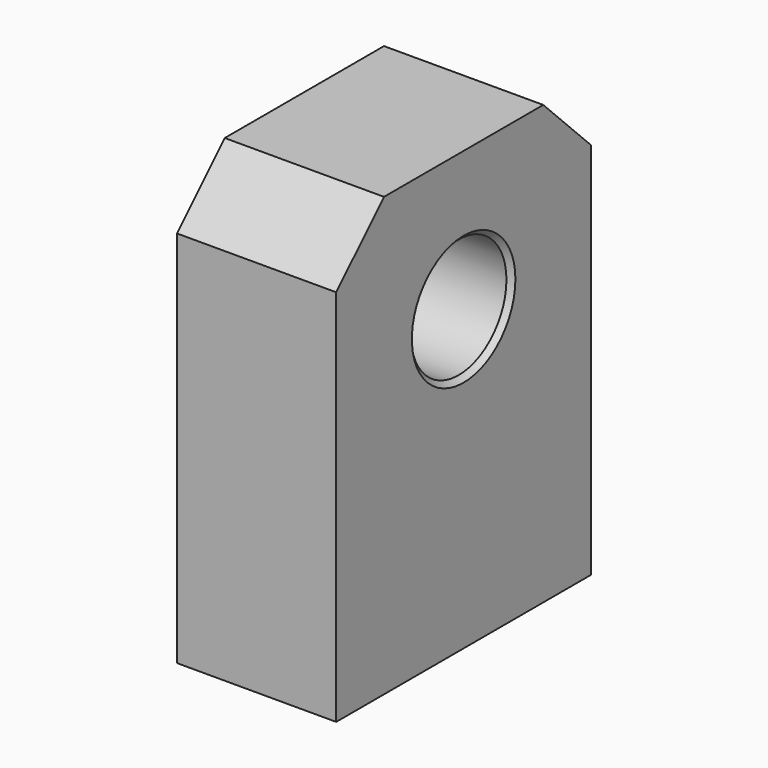
from build123d import *

# Parameters (mm, degrees)
F0_W     = 50.8
F0_H     = 69.85
F1_DEPTH = 25.4
F2_R     = 9.525
F3_DEPTH = 25.401
F4_SIZE  = 9.525
F5_SIZE  = 0.79375


with BuildPart() as f1:
    # F0 (on Right) → F1 (new body)
    with BuildSketch(Plane.YZ):
        with Locations((25.4, 34.925)):
            Rectangle(F0_W, F0_H)
    extrude(amount=F1_DEPTH)

    # F2 (on face) → F3 (cut, through all)
    with BuildSketch(Plane.YZ.offset(25.4)):
        with Locations((25.4, 47.625)):
            Circle(F2_R)
    extrude(amount=-F3_DEPTH, mode=Mode.SUBTRACT)

    # F4
    f4_edges = [f1.edges().sort_by_distance(p)[0] for p in [
        (12.7, 50.8, 69.85),
        (12.7, 0, 69.85),
    ]]
    chamfer(f4_edges, length=F4_SIZE)

    # F5
    f5_edges = [f1.edges().sort_by_distance(p)[0] for p in [
        (0, 15.875, 47.625),
        (25.4, 15.875, 47.625),
    ]]
    chamfer(f5_edges, length=F5_SIZE)


solid = f1.part
